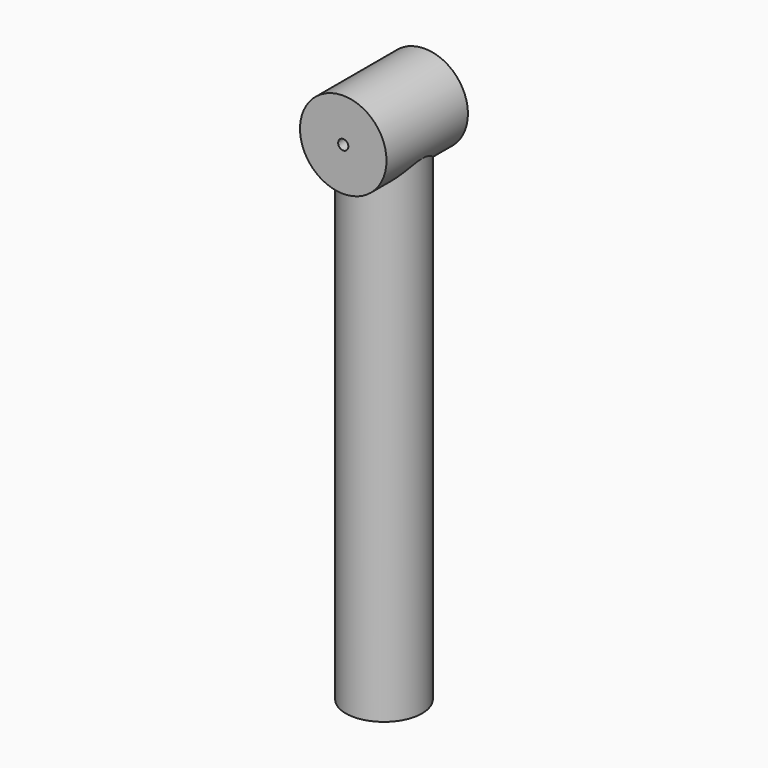
from build123d import *

# Parameters (mm, degrees)
F0_R     = 17
F0_R_2   = 2
F1_DEPTH = 40
F2_R     = 15
F3_DEPTH = 200


with BuildPart() as f1:
    # F0 (on Front) → F1 (new body)
    with BuildSketch(Plane.XZ):
        Circle(F0_R)
        Circle(F0_R_2, mode=Mode.SUBTRACT)
    extrude(amount=F1_DEPTH)

    # F2 (on Top) → F3 (join)
    with BuildSketch(Plane.XY):
        with Locations((0, -20)):
            Circle(F2_R)
    extrude(amount=-F3_DEPTH)


solid = f1.part
